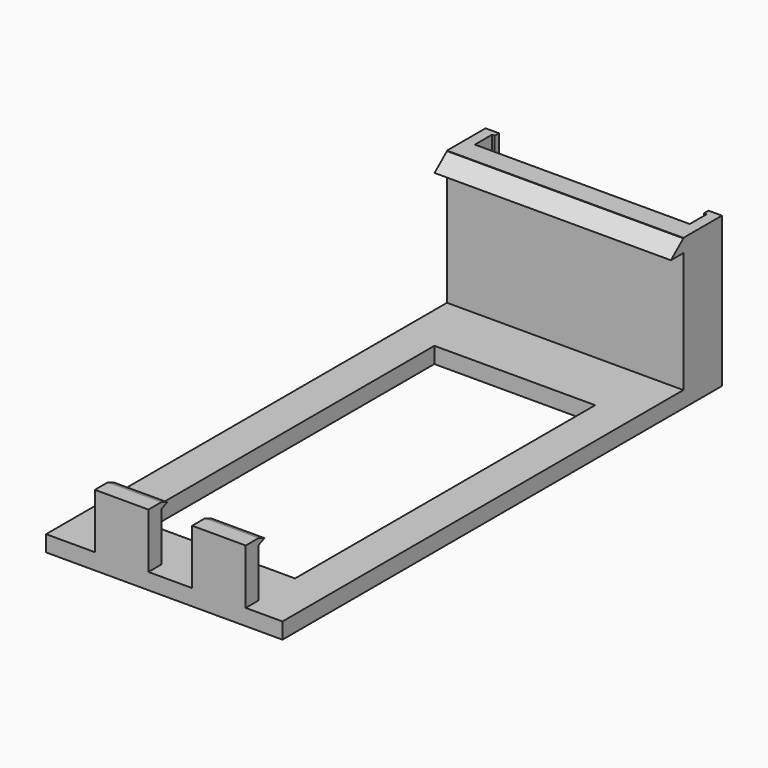
from build123d import *

# Parameters (mm, degrees)
PAD_DEPTH    = 28
SKETCH002_W  = 44.1
SKETCH002_H  = 3
PAD001_DEPTH = 93.5
PAD002_DEPTH = 5
PAD003_DEPTH = 5
PAD004_DEPTH = 44.1
SKETCH006_W  = 30
SKETCH006_H  = 70
POCKET_DEPTH = 5


with BuildPart() as part:
    # Sketch → Pad (new body)
    with BuildSketch(Plane.XY):
        Polygon((-4.997332, 9), (-2.497332, 9), (-2.497332, 8), (-2.997332, 8), (-2.997332, 4), (37.102668, 4), (37.102668, 8), (36.602668, 8), (36.602668, 9), (39.102668, 9), (39.102668, 0), (-4.997332, 0), (-4.997332, 4), align=None)
    extrude(amount=PAD_DEPTH)

    # Sketch002 (on Face11 of Pad) → Pad001 (join)
    with BuildSketch(Plane.XZ):
        with Locations((17.052668, 1.5)):
            Rectangle(SKETCH002_W, SKETCH002_H)
    extrude(amount=PAD001_DEPTH)

    # Sketch003 (on Face18 of Pad001) → Pad002 (join, symmetric)
    with BuildSketch(Plane.YZ.offset(9.102668)):
        Polygon((-93.5, 2.9), (-93.5, 13.24805), (-90.5, 13.24805), (-89.114181, 12.674025), (-90.5, 12.1), (-90.5, 2.9), align=None)
    extrude(amount=PAD002_DEPTH, both=True)

    # Sketch004 (on Face18 of Pad001) → Pad003 (join, symmetric)
    with BuildSketch(Plane.YZ.offset(27.252668)):
        Polygon((-93.5, 2.9), (-93.5, 13.24805), (-90.5, 13.24805), (-89.114181, 12.674025), (-90.5, 12.1), (-90.5, 2.9), align=None)
    extrude(amount=PAD003_DEPTH, both=True)

    # Sketch005 (on Face14 of Pad003) → Pad004 (join)
    with BuildSketch(Plane.YZ.offset(39.102668)):
        Polygon((0.1, 28), (-2.9, 25.5), (0.1, 25.5), align=None)
    extrude(amount=-PAD004_DEPTH)

    # Sketch006 (on Face26 of Pad004) → Pocket (cut)
    with BuildSketch(Plane.XY.offset(3)):
        with Locations((17.052668, -46.75)):
            Rectangle(SKETCH006_W, SKETCH006_H)
    extrude(amount=-POCKET_DEPTH, mode=Mode.SUBTRACT)


solid = part.part
